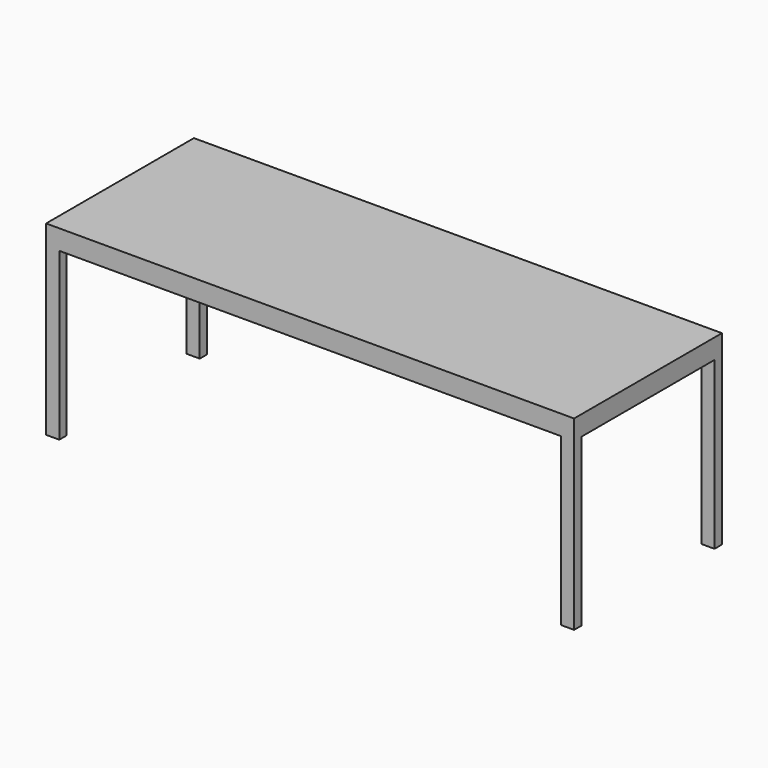
from build123d import *

# Parameters (mm, degrees)
F0_W     = 2000
F0_H     = 700
F1_DEPTH = 25
F3_DEPTH = 50
F5_W     = 50
F5_H     = 35
F6_DEPTH = 630


with BuildPart() as f1:
    # F0 (on Top) → F1 (new body)
    with BuildSketch(Plane.XY):
        with Locations((386.865544, 10.939363)):
            Rectangle(F0_W, F0_H)
    extrude(amount=F1_DEPTH)

    # F2 (on face) → F3 (join)
    with BuildSketch(Plane(origin=(0, 0, 0), x_dir=(1, 0, 0), z_dir=(0, 0, -1))):
        Polygon((-613.134456, -360.939363), (1052.856326, -360.939363), (1052.856326, -325.939363), (-579.887948, -325.939363), (-579.887948, 0), (-613.134456, -10.939363), align=None)
        Polygon((1052.856326, -325.939363), (1052.856326, -360.939363), (1386.865544, -360.939363), (1386.865544, -10.939363), (1351.865544, -10.939363), (1351.865544, -325.939363), align=None)
        Polygon((1351.865544, -10.939363), (1386.865544, -10.939363), (1386.865544, 339.060637), (1052.856326, 339.060637), (1052.856326, 304.060637), (1351.865544, 304.060637), align=None)
        Polygon((-613.134456, 339.060637), (-613.134456, -10.939363), (-579.887948, 0), (-579.887948, 304.060637), (1052.856326, 304.060637), (1052.856326, 339.060637), align=None)
    extrude(amount=F3_DEPTH)

    # F5 (on face) → F6 (join)
    with BuildSketch(Plane(origin=(0, 0, -50), x_dir=(1, 0, 0), z_dir=(0, 0, -1))):
        with Locations((-588.134456, 321.560637)):
            Rectangle(F5_W, F5_H)
        with Locations((-588.134456, -343.439363)):
            Rectangle(F5_W, F5_H)
        with Locations((1361.865544, -343.439363)):
            Rectangle(F5_W, F5_H)
        with Locations((1361.865544, 321.560637)):
            Rectangle(F5_W, F5_H)
    extrude(amount=F6_DEPTH)


solid = f1.part
